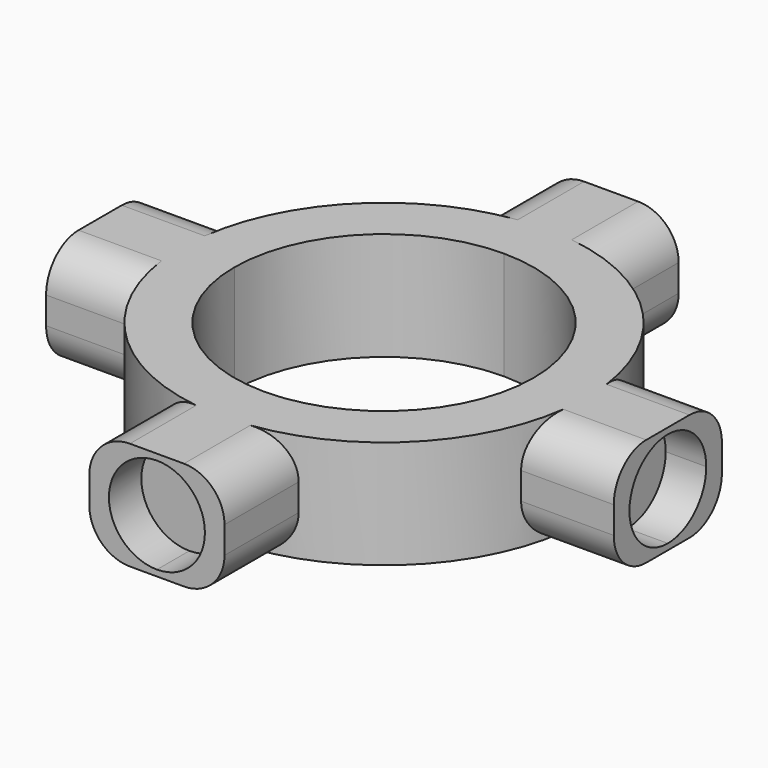
from build123d import *

# Parameters (mm, degrees)
F1_DEPTH = 8
F6_DEPTH = 3
F7_DEPTH = 3
F8_DEPTH = 3
F9_DEPTH = 3
F10_R    = 3


with BuildPart() as f1:
    # F0 (on Top) → F1 (new body)
    with BuildSketch(Plane.XY):
        with BuildLine():
            ThreePointArc((-11.075, 0), (-7.8312076016, 7.8312076016), (0, 11.075))
            Line((0, 11.075), (0, 15))
            ThreePointArc((0, 15), (-2.5365296809, 14.7839783948), (-5, 14.1421356237))
            ThreePointArc((-5, 14.1421356237), (-10.6066017178, 10.6066017178), (-14.1421356237, 5))
            ThreePointArc((-14.1421356237, 5), (-14.7839783948, 2.5365296809), (-15, 0))
            Line((-15, 0), (-11.075, 0))
        make_face()
        with BuildLine():
            Line((0, -15), (0, -11.075))
            ThreePointArc((0, -11.075), (-7.8312076016, -7.8312076016), (-11.075, 0))
            Line((-11.075, 0), (-15, 0))
            ThreePointArc((-15, 0), (-14.7839783948, -2.5365296809), (-14.1421356237, -5))
            ThreePointArc((-14.1421356237, -5), (-10.6066017178, -10.6066017178), (-5, -14.1421356237))
            ThreePointArc((-5, -14.1421356237), (-2.5365296809, -14.7839783948), (0, -15))
        make_face()
        with BuildLine():
            ThreePointArc((-14.1421356237, -5), (-14.7839783948, -2.5365296809), (-15, 0))
            Line((-15, 0), (-21, 0))
            Line((-21, 0), (-21, -5))
            Line((-21, -5), (-14.1421356237, -5))
        make_face()
        with BuildLine():
            Line((-21, 0), (-15, 0))
            ThreePointArc((-15, 0), (-14.7839783948, 2.5365296809), (-14.1421356237, 5))
            Line((-14.1421356237, 5), (-21, 5))
            Line((-21, 5), (-21, 0))
        make_face()
        with BuildLine():
            ThreePointArc((-5, 14.1421356237), (-2.5365296809, 14.7839783948), (0, 15))
            Line((0, 15), (0, 21))
            Line((0, 21), (-5, 21))
            Line((-5, 21), (-5, 14.1421356237))
        make_face()
        with BuildLine():
            ThreePointArc((0, 11.075), (7.8312076016, 7.8312076016), (11.075, 0))
            Line((11.075, 0), (15, 0))
            ThreePointArc((15, 0), (14.7839783948, 2.5365296809), (14.1421356237, 5))
            ThreePointArc((14.1421356237, 5), (10.6066017178, 10.6066017178), (5, 14.1421356237))
            ThreePointArc((5, 14.1421356237), (2.5365296809, 14.7839783948), (0, 15))
            Line((0, 15), (0, 11.075))
        make_face()
        with BuildLine():
            Line((15, 0), (11.075, 0))
            ThreePointArc((11.075, 0), (7.8312076016, -7.8312076016), (0, -11.075))
            Line((0, -11.075), (0, -15))
            ThreePointArc((0, -15), (2.5365296809, -14.7839783948), (5, -14.1421356237))
            ThreePointArc((5, -14.1421356237), (10.6066017178, -10.6066017178), (14.1421356237, -5))
            ThreePointArc((14.1421356237, -5), (14.7839783948, -2.5365296809), (15, 0))
        make_face()
        with BuildLine():
            ThreePointArc((5, -14.1421356237), (2.5365296809, -14.7839783948), (0, -15))
            Line((0, -15), (0, -21))
            Line((0, -21), (5, -21))
            Line((5, -21), (5, -14.1421356237))
        make_face()
        with BuildLine():
            Line((0, -21), (0, -15))
            ThreePointArc((0, -15), (-2.5365296809, -14.7839783948), (-5, -14.1421356237))
            Line((-5, -14.1421356237), (-5, -21))
            Line((-5, -21), (0, -21))
        make_face()
        with BuildLine():
            Line((21, 0), (15, 0))
            ThreePointArc((15, 0), (14.7839783948, -2.5365296809), (14.1421356237, -5))
            Line((14.1421356237, -5), (21, -5))
            Line((21, -5), (21, 0))
        make_face()
        with BuildLine():
            ThreePointArc((14.1421356237, 5), (14.7839783948, 2.5365296809), (15, 0))
            Line((15, 0), (21, 0))
            Line((21, 0), (21, 5))
            Line((21, 5), (14.1421356237, 5))
        make_face()
        with BuildLine():
            Line((0, 21), (0, 15))
            ThreePointArc((0, 15), (2.5365296809, 14.7839783948), (5, 14.1421356237))
            Line((5, 14.1421356237), (5, 21))
            Line((5, 21), (0, 21))
        make_face()
    extrude(amount=F1_DEPTH)

    # F5 (on face) → F6 (cut)
    with BuildSketch(Plane.XZ.offset(21)):
        with BuildLine():
            Line((0, 7.55), (0, 0.45))
            ThreePointArc((0, 0.45), (2.5102290732, 1.4897709268), (3.55, 4))
            ThreePointArc((3.55, 4), (2.5102290732, 6.5102290732), (0, 7.55))
        make_face()
        with BuildLine():
            ThreePointArc((0, 7.55), (-3.55, 4), (0, 0.45))
            Line((0, 0.45), (0, 7.55))
        make_face()
    extrude(amount=-F6_DEPTH, mode=Mode.SUBTRACT)

    # F2 (on face) → F7 (cut)
    with BuildSketch(Plane(origin=(-21, 0, 0), x_dir=(0, -1, 0), z_dir=(-1, 0, 0))):
        with BuildLine():
            ThreePointArc((0, 7.55), (-3.55, 4), (0, 0.45))
            Line((0, 0.45), (0, 7.55))
        make_face()
        with BuildLine():
            Line((0, 7.55), (0, 0.45))
            ThreePointArc((0, 0.45), (2.5102290732, 1.4897709268), (3.55, 4))
            ThreePointArc((3.55, 4), (2.5102290732, 6.5102290732), (0, 7.55))
        make_face()
    extrude(amount=-F7_DEPTH, mode=Mode.SUBTRACT)

    # F3 (on face) → F8 (cut)
    with BuildSketch(Plane(origin=(0, 21, 0), x_dir=(-1, 0, 0), z_dir=(0, 1, 0))):
        with BuildLine():
            ThreePointArc((0, 7.55), (-3.55, 4), (0, 0.45))
            Line((0, 0.45), (0, 7.55))
        make_face()
        with BuildLine():
            Line((0, 7.55), (0, 0.45))
            ThreePointArc((0, 0.45), (2.5102290732, 1.4897709268), (3.55, 4))
            ThreePointArc((3.55, 4), (2.5102290732, 6.5102290732), (0, 7.55))
        make_face()
    extrude(amount=-F8_DEPTH, mode=Mode.SUBTRACT)

    # F4 (on face) → F9 (cut)
    with BuildSketch(Plane.YZ.offset(21)):
        with BuildLine():
            ThreePointArc((0, 7.55), (-3.55, 4), (0, 0.45))
            Line((0, 0.45), (0, 7.55))
        make_face()
        with BuildLine():
            Line((0, 7.55), (0, 0.45))
            ThreePointArc((0, 0.45), (2.5102290732, 1.4897709268), (3.55, 4))
            ThreePointArc((3.55, 4), (2.5102290732, 6.5102290732), (0, 7.55))
        make_face()
    extrude(amount=-F9_DEPTH, mode=Mode.SUBTRACT)

    # F10
    f10_edges = [f1.edges().sort_by_distance(p)[0] for p in [
        (-5, -17.571068, 0),
        (-5, -17.571068, 8),
        (5, -17.571068, 8),
        (5, -17.571068, 0),
        (-17.571068, 5, 8),
        (-17.571068, 5, 0),
        (-17.571068, -5, 8),
        (-17.571068, -5, 0),
        (5, 17.571068, 8),
        (5, 17.571068, 0),
        (17.571068, 5, 8),
        (17.571068, 5, 0),
        (17.571068, -5, 8),
        (17.571068, -5, 0),
        (-5, 17.571068, 8),
        (-5, 17.571068, 0),
    ]]
    fillet(f10_edges, radius=F10_R)


solid = f1.part
